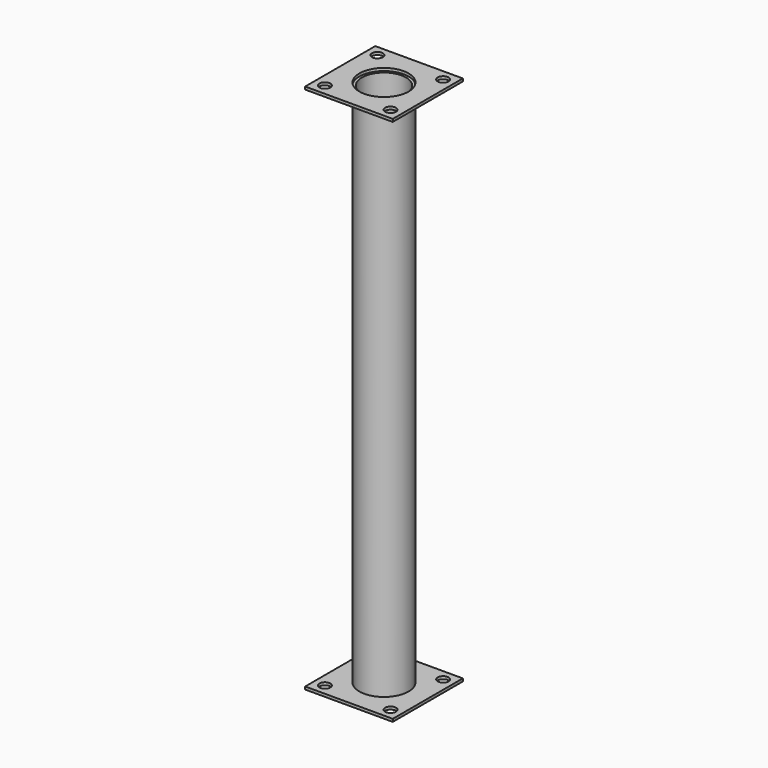
from build123d import *

# Parameters (mm, degrees)
F0_R     = 57.15
F0_R_2   = 51.1302
F1_DEPTH = 609.6
F2_W     = 203.2
F2_H     = 203.2
F2_R     = 57.15
F3_DEPTH = 6.35
F4_R     = 12.7
F5_DEPTH = 6.35


with BuildPart() as f1:
    # F0 (on Top) → F1 (new body, symmetric)
    with BuildSketch(Plane.XY):
        Circle(F0_R)
        Circle(F0_R_2, mode=Mode.SUBTRACT)
    extrude(amount=F1_DEPTH, both=True)


with BuildPart() as f3:
    # F2 (on face) → F3 (new body)
    with BuildSketch(Plane.XY.offset(609.6)):
        Rectangle(F2_W, F2_H)
        Circle(F2_R, mode=Mode.SUBTRACT)
    extrude(amount=F3_DEPTH)

    # F4 (on face) → F5 (cut, through all)
    with BuildSketch(Plane.XY.offset(615.95)):
        with Locations((-76.2, 76.2)):
            Circle(F4_R)
        with Locations((76.2, 76.2)):
            Circle(F4_R)
        with Locations((-76.2, -76.2)):
            Circle(F4_R)
        with Locations((76.2, -76.2)):
            Circle(F4_R)
    extrude(amount=-F5_DEPTH, mode=Mode.SUBTRACT)


with BuildPart() as f6_1:
    # F6: instance of F3
    add(f3.part.mirror(Plane.XY))


solid = Compound([f1.part, f3.part, f6_1.part])
